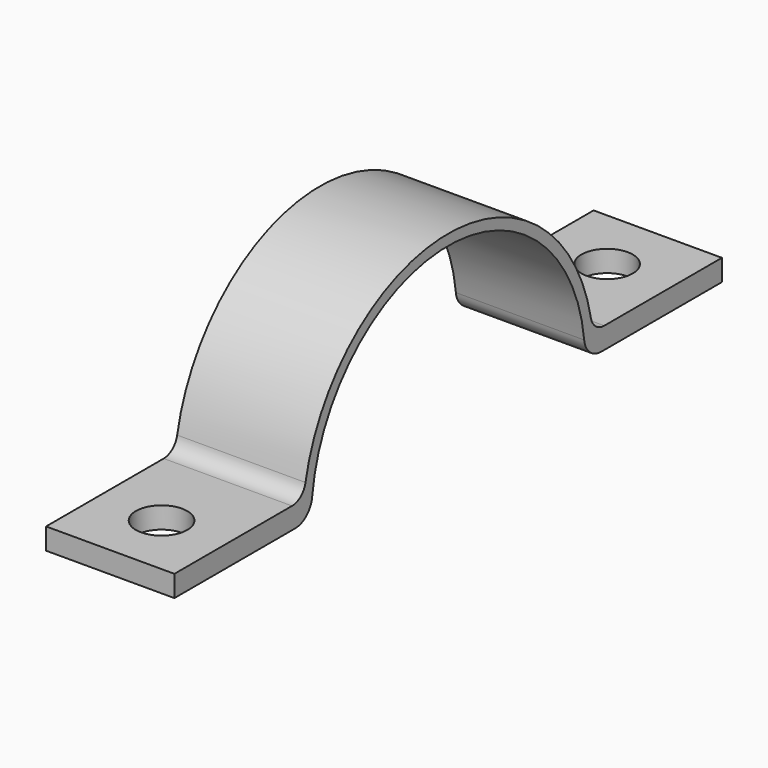
from build123d import *

# Parameters (mm, degrees)
F1_DEPTH = 30
F2_R     = 4
F3_R     = 5
F4_R     = 6
F5_DEPTH = 25


with BuildPart() as f1:
    # F0 (on Right) → F1 (new body)
    with BuildSketch(Plane.YZ):
        with BuildLine():
            Line((80, 5), (42.204858, 5))
            ThreePointArc((42.204858, 5), (0, 42.5), (-42.204858, 5))
            Line((-42.204858, 5), (-80, 5))
            Line((-80, 5), (-80, 0))
            Line((-80, 0), (-40, 0))
            ThreePointArc((-40, 0), (0, 40), (40, 0))
            Line((40, 0), (80, 0))
            Line((80, 0), (80, 5))
        make_face()
    extrude(amount=F1_DEPTH)

    # F2
    f2_edges = [f1.edges().sort_by_distance(p)[0] for p in [
        (15, -42.204858, 5),
        (15, 42.204858, 5),
    ]]
    fillet(f2_edges, radius=F2_R)

    # F3
    f3_edges = [f1.edges().sort_by_distance(p)[0] for p in [
        (15, -40, 0),
        (15, 40, 0),
    ]]
    fillet(f3_edges, radius=F3_R)

    # F4 (on face) → F5 (cut)
    with BuildSketch(Plane.XY.offset(5)):
        with Locations((15, -65)):
            Circle(F4_R)
        with Locations((15.160678, 65)):
            Circle(F4_R)
    extrude(amount=-F5_DEPTH, mode=Mode.SUBTRACT)


solid = f1.part
